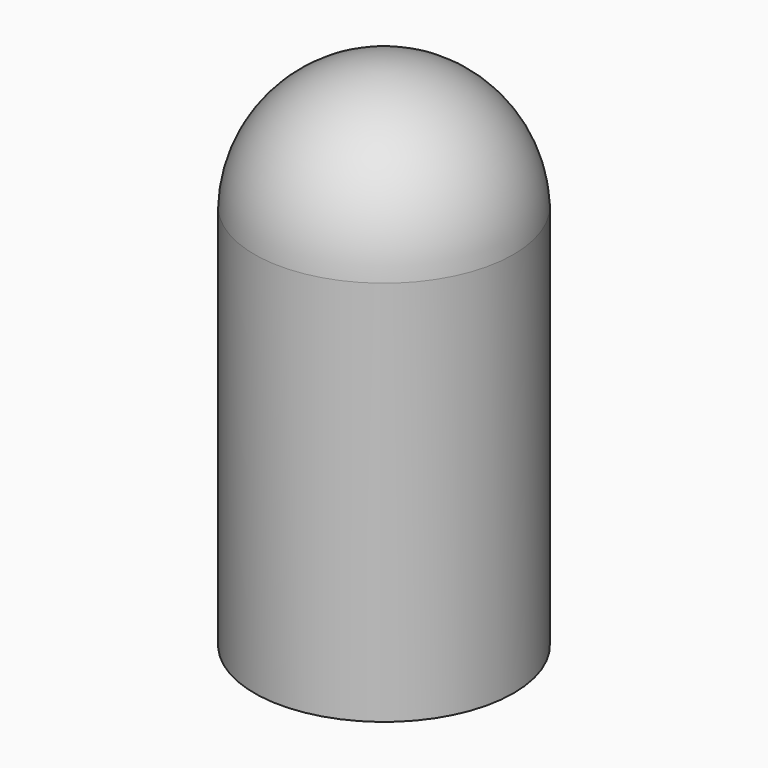
from build123d import *


with BuildPart() as f1:
    # F0 (on Front) → F1 (revolve)
    with BuildSketch(Plane.XZ):
        with BuildLine():
            Line((0, 45.321818), (0, 46.321818))
            ThreePointArc((0, 46.321818), (-8.155715, 43.030353), (-11.742196, 35))
            Line((-11.742196, 35), (-11.742196, 0))
            Line((-11.742196, 0), (-10.741469, 0))
            Line((-10.741469, 0), (-10.741469, 35))
            ThreePointArc((-10.741469, 35), (-7.448474, 42.323123), (0, 45.321818))
        make_face()
    revolve(axis=Axis((0, 0, 0.803796), (0, 0, 1)))


solid = f1.part
